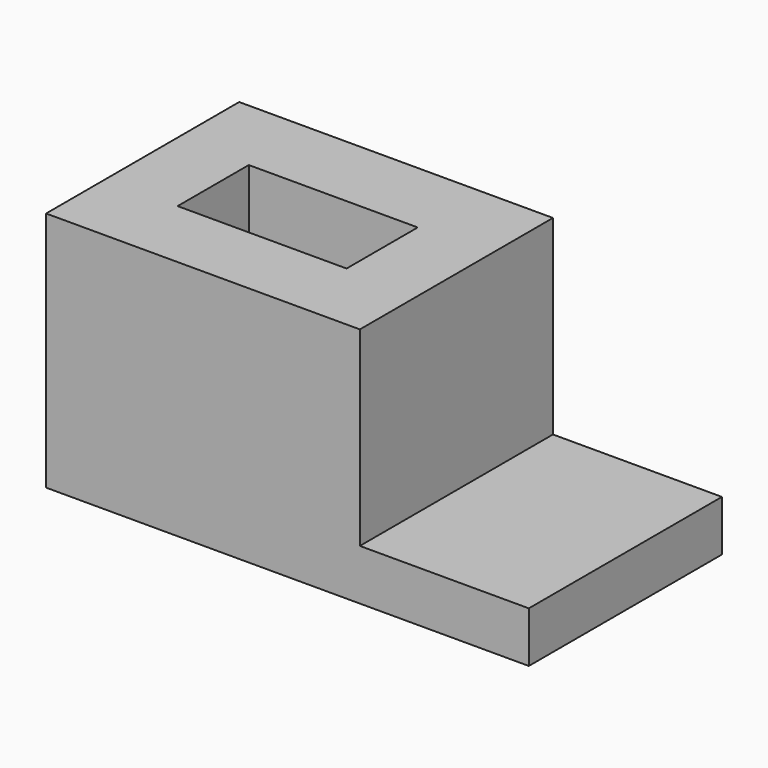
from build123d import *

# Parameters (mm, degrees)
F0_W     = 82.55
F0_H     = 63.5
F0_W_2   = 44.45
F0_H_2   = 23.403525
F1_DEPTH = 63.5
F2_W     = 63.5
F2_H     = 13.351099
F3_DEPTH = 44.45


with BuildPart() as f1:
    # F0 (on Top) → F1 (new body)
    with BuildSketch(Plane.XY):
        with Locations((41.275, 31.75)):
            Rectangle(F0_W, F0_H)
        with Locations((41.275, 31.142458)):
            Rectangle(F0_W_2, F0_H_2, mode=Mode.SUBTRACT)
    extrude(amount=-F1_DEPTH)

    # F2 (on face) → F3 (join)
    with BuildSketch(Plane.YZ.offset(82.55)):
        with Locations((31.75, -56.82445)):
            Rectangle(F2_W, F2_H)
    extrude(amount=F3_DEPTH)


solid = f1.part
